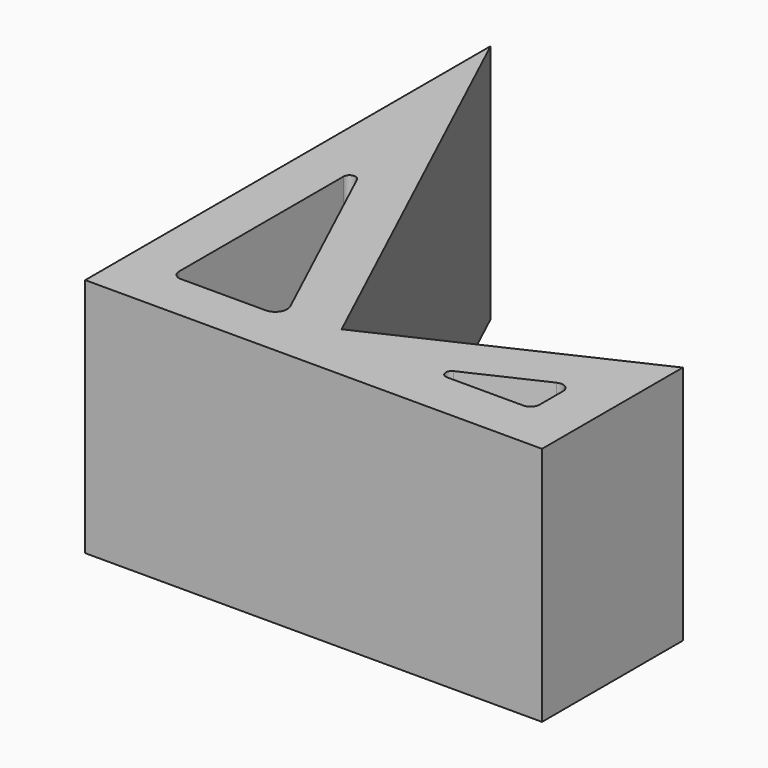
from build123d import *

# Parameters (mm, degrees)
F1_DEPTH = 20
F3_DEPTH = 25


with BuildPart() as f1:
    # F0 (on Top) → F1 (new body)
    with BuildSketch(Plane.XY):
        Polygon((-17.327349, 0), (0, 0), (20.672651, 0), (20.672651, 14.639816), (0, 5), (-17.327349, 42.158619), align=None)
    extrude(amount=F1_DEPTH)

    # F2 (on Top) → F3 (cut)
    with BuildSketch(Plane.XY):
        with BuildLine():
            ThreePointArc((-13.327349, 4.75), (-13.107679, 4.21967), (-12.577349, 4))
            Line((-12.577349, 4), (-5.51689, 4))
            ThreePointArc((-5.51689, 4), (-4.673498, 4.4627), (-4.610582, 5.422618))
            Line((-4.610582, 5.422618), (-12.374195, 22.07174))
            ThreePointArc((-12.374195, 22.07174), (-12.935569, 22.348579), (-13.327349, 21.860431))
            Line((-13.327349, 21.860431), (-13.327349, 4.75))
        make_face()
        with BuildLine():
            ThreePointArc((16.672651, 7.183809), (16.325626, 7.816353), (15.605688, 7.86354))
            Line((15.605688, 7.86354), (9.364345, 4.953154))
            ThreePointArc((9.364345, 4.953154), (9.087506, 4.39178), (9.575654, 4))
            Line((9.575654, 4), (15.922651, 4))
            ThreePointArc((15.922651, 4), (16.452981, 4.21967), (16.672651, 4.75))
            Line((16.672651, 4.75), (16.672651, 7.183809))
        make_face()
    extrude(amount=F3_DEPTH, mode=Mode.SUBTRACT)


solid = f1.part
